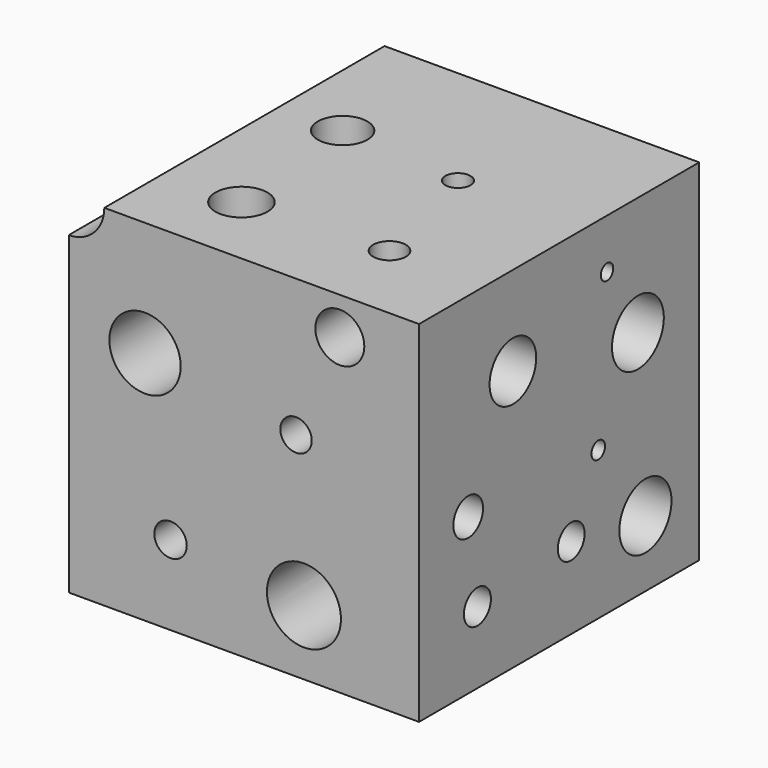
from build123d import *

# Parameters (mm, degrees)
F0_W      = 127
F0_H      = 127
F1_DEPTH  = 127
F2_R      = 12.935581
F2_R_2    = 5.699085
F2_R_3    = 8.875315
F2_R_4    = 13.426532
F2_R_5    = 5.885318
F3_DEPTH  = 127
F4_R      = 9.438137
F4_R_2    = 5.910893
F4_R_3    = 4.559847
F4_R_4    = 8.990309
F5_DEPTH  = 127
F6_R      = 11.744649
F6_R_2    = 2.825063
F6_R_3    = 10.565996
F6_R_4    = 3.08106
F6_R_5    = 6.080972
F6_R_6    = 6.124004
F6_R_7    = 6.729202
F6_R_8    = 11.809917
F7_DEPTH  = 127
F9_R      = 10.126369
F10_DEPTH = 12.7
F11_R     = 8.89


with BuildPart() as f1:
    # F0 (on Front) → F1 (new body)
    with BuildSketch(Plane.XZ):
        with Locations((3.502199, -1.867108)):
            Rectangle(F0_W, F0_H)
    extrude(amount=F1_DEPTH)

    # F2 (on face) → F3 (cut)
    with BuildSketch(Plane.XZ.offset(127)):
        with Locations((-32.345474, 20.04559)):
            Circle(F2_R)
        with Locations((22.404112, 11.744391)):
            Circle(F2_R_2)
        with Locations((38.283437, 48.044886)):
            Circle(F2_R_3)
        with Locations((25.276363, -41.741844)):
            Circle(F2_R_4)
        with Locations((-23.097821, -36.506735)):
            Circle(F2_R_5)
        with BuildLine():
            ThreePointArc((-59.997801, 48.741786), (-50.882413, 52.517504), (-47.106695, 61.632892))
            Line((-47.106695, 61.632892), (-59.997801, 61.632892))
            Line((-59.997801, 61.632892), (-59.997801, 48.741786))
        make_face()
        with BuildLine():
            Line((-59.997801, 61.632892), (-47.106695, 61.632892))
            ThreePointArc((-47.106695, 61.632892), (-69.113189, 70.74828), (-59.997801, 48.741786))
            Line((-59.997801, 48.741786), (-59.997801, 61.632892))
        make_face()
    extrude(amount=-F3_DEPTH, mode=Mode.SUBTRACT)

    # F4 (on face) → F5 (cut)
    with BuildSketch(Plane.XY.offset(61.632892)):
        with Locations((-18.980371, -100.007966)):
            Circle(F4_R)
        with Locations((32.380767, -97.104989)):
            Circle(F4_R_2)
        with Locations((20.63955, -51.409192)):
            Circle(F4_R_3)
        with Locations((-24.009421, -47.861032)):
            Circle(F4_R_4)
    extrude(amount=-F5_DEPTH, mode=Mode.SUBTRACT)

    # F6 (on face) → F7 (cut)
    with BuildSketch(Plane.YZ.offset(67.002199)):
        with Locations((-27.788695, 18.631309)):
            Circle(F6_R)
        with Locations((-41.792449, 43.640163)):
            Circle(F6_R_2)
        with Locations((-84.450044, 29.30112)):
            Circle(F6_R_3)
        with Locations((-45.766473, -11.597881)):
            Circle(F6_R_4)
        with Locations((-58.026452, -35.773143)):
            Circle(F6_R_5)
        with Locations((-100.532867, -39.320692)):
            Circle(F6_R_6)
        with Locations((-104.721323, -8.98627)):
            Circle(F6_R_7)
        with Locations((-24.392737, -41.28984)):
            Circle(F6_R_8)
    extrude(amount=-F7_DEPTH, mode=Mode.SUBTRACT)

    # F9 (on Front) → F10 (cut)
    with BuildSketch(Plane.XZ):
        with Locations((-60.353138, -65.667182)):
            Circle(F9_R)
    extrude(amount=F10_DEPTH, mode=Mode.SUBTRACT)

    # F11
    f11_edges = [f1.edges().sort_by_distance(p)[0] for p in [
        (-53.173192, -12.7, -58.526333),
    ]]
    fillet(f11_edges, radius=F11_R)


solid = f1.part
